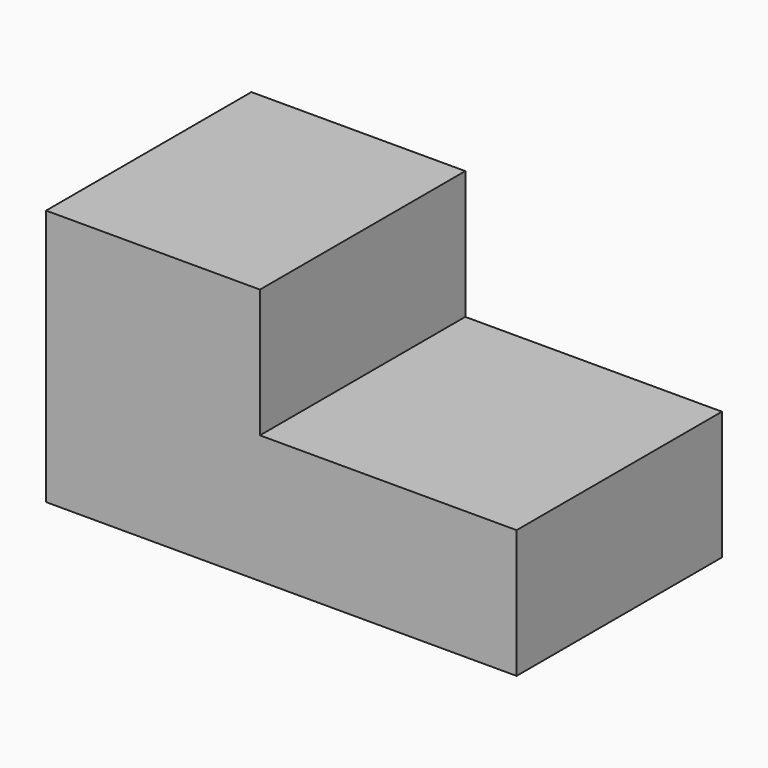
from build123d import *

# Parameters (mm, degrees)
F0_W     = 55
F0_H     = 30
F1_DEPTH = 30
F2_W     = 30
F2_H     = 15
F3_DEPTH = 30.001
F5_DEPTH = 5


with BuildPart() as f1:
    # F0 (on Top) → F1 (new body)
    with BuildSketch(Plane.XY):
        with Locations((9.0955648875, 9.9145695567)):
            Rectangle(F0_W, F0_H)
    extrude(amount=F1_DEPTH)

    # F2 (on face) → F3 (cut, through all)
    with BuildSketch(Plane(origin=(0, 24.9145695567, 0), x_dir=(-1, 0, 0), z_dir=(0, 1, 0))):
        with Locations((-21.5955648875, 22.5)):
            Rectangle(F2_W, F2_H)
    extrude(amount=-F3_DEPTH, mode=Mode.SUBTRACT)

    # F4 (on face) → F5 (cut)
    with BuildSketch(Plane(origin=(0, 24.9145695567, 0), x_dir=(-1, 0, 0), z_dir=(0, 1, 0))):
        with BuildLine():
            Line((-34.0955648875, 0), (-19.0955648875, 0))
            ThreePointArc((-19.0955648875, 0), (-26.5955648875, 7.5), (-34.0955648875, 0))
        make_face()
        with BuildLine():
            ThreePointArc((15.9044351125, 0), (8.4044351125, 7.5), (0.9044351125, 0))
            Line((0.9044351125, 0), (15.9044351125, 0))
        make_face()
    extrude(amount=-F5_DEPTH, mode=Mode.SUBTRACT)


solid = f1.part
